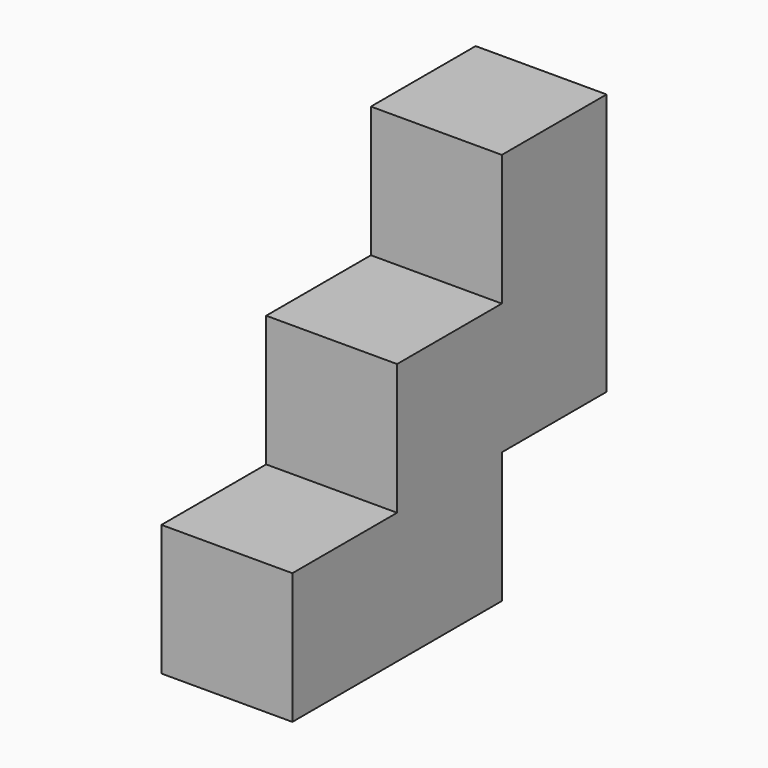
from build123d import *

# Parameters (mm, degrees)
F0_W     = 19.05
F0_H     = 38.1
F1_DEPTH = 19.05
F2_W     = 19.05
F2_H     = 19.05
F3_DEPTH = 19.05
F4_W     = 19.05
F4_H     = 19.05
F5_DEPTH = 19.05
F6_W     = 19.05
F6_H     = 19.05
F7_DEPTH = 19.05


with BuildPart() as f1:
    # F0 (on Front) → F1 (new body)
    with BuildSketch(Plane.XZ):
        with Locations((-2.74175, 14.235811)):
            Rectangle(F0_W, F0_H)
    extrude(amount=F1_DEPTH)

    # F2 (on face) → F3 (join)
    with BuildSketch(Plane.XZ.offset(19.05)):
        with Locations((-2.74175, 4.710811)):
            Rectangle(F2_W, F2_H)
    extrude(amount=F3_DEPTH)

    # F4 (on face) → F5 (join)
    with BuildSketch(Plane(origin=(0, 0, -4.814189), x_dir=(1, 0, 0), z_dir=(0, 0, -1))):
        with Locations((-2.74175, 28.575)):
            Rectangle(F4_W, F4_H)
    extrude(amount=F5_DEPTH)

    # F6 (on face) → F7 (join)
    with BuildSketch(Plane.XZ.offset(38.1)):
        with Locations((-2.74175, -14.339189)):
            Rectangle(F6_W, F6_H)
        with Locations((-2.74175, -14.339189)):
            Rectangle(F6_W, F6_H)
    extrude(amount=F7_DEPTH)


solid = f1.part
